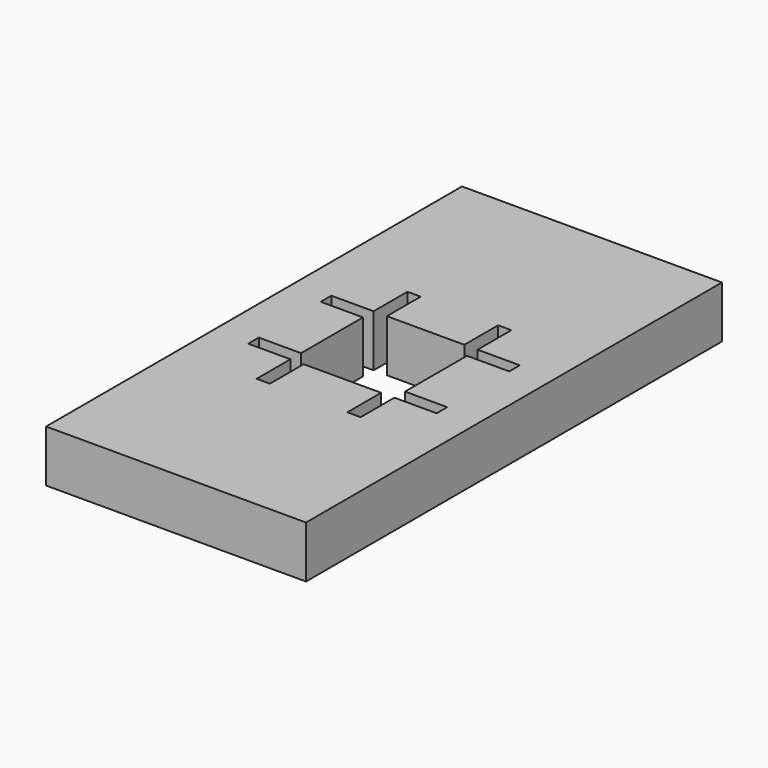
from build123d import *

# Parameters (mm, degrees)
F0_W     = 20
F0_H     = 40
F1_DEPTH = 4


with BuildPart() as f1:
    # F0 (on Top) → F1 (new body)
    with BuildSketch(Plane.XY):
        with Locations((-1.248105, 5.210561)):
            Rectangle(F0_W, F0_H)
        Polygon((-4.228105, 12.460561), (-4.228105, 9.210561), (1.731895, 9.210561), (1.731895, 12.460561), (2.751895, 12.460561), (2.751895, 9.210561), (6.001895, 9.210561), (6.001895, 8.190561), (2.751895, 8.190561), (2.751895, 2.230561), (6.001895, 2.230561), (6.001895, 1.210561), (2.751895, 1.210561), (2.751895, -2.039439), (1.731895, -2.039439), (1.731895, 1.210561), (-4.228105, 1.210561), (-4.228105, -2.039439), (-5.248105, -2.039439), (-5.248105, 1.210561), (-8.498105, 1.210561), (-8.498105, 2.230561), (-5.248105, 2.230561), (-5.248105, 8.190561), (-8.498105, 8.190561), (-8.498105, 9.210561), (-5.248105, 9.210561), (-5.248105, 12.460561), align=None, mode=Mode.SUBTRACT)
    extrude(amount=F1_DEPTH)


solid = f1.part
